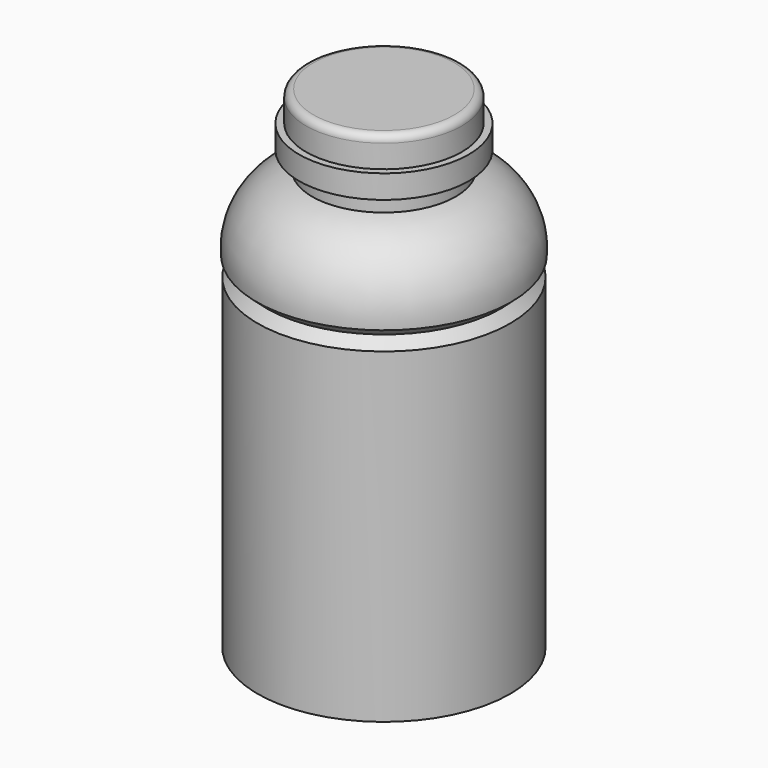
from build123d import *

# Parameters (mm, degrees)
F2_R = 2.54


with BuildPart() as f1:
    # F0 (on Front) → F1 (revolve)
    with BuildSketch(Plane.XZ):
        with BuildLine():
            Line((26.818993, 63.024633), (0, 63.024633))
            Line((0, 63.024633), (0, -104.952209))
            Line((0, -104.952209), (43.4866, -106.24814))
            Line((43.4866, -106.24814), (43.4866, 6.036696))
            Line((43.4866, 6.036696), (40.355504, 9.5529))
            Line((40.355504, 9.5529), (43.816406, 12.634752))
            ThreePointArc((43.816406, 12.634752), (39.197905, 29.15784), (24.733072, 38.383434))
            Line((24.733072, 38.383434), (24.733072, 44.549331))
            Line((24.733072, 44.549331), (29.202903, 44.549331))
            Line((29.202903, 44.549331), (29.202903, 50.211117))
            Line((29.202903, 50.211117), (29.202903, 52.595027))
            Line((29.202903, 52.595027), (26.818993, 52.595027))
            Line((26.818993, 52.595027), (26.818993, 63.024633))
        make_face()
    revolve(axis=Axis((0, 0, -20.963788), (0, 0, -1)))

    # F2
    f2_edges = [f1.edges().sort_by_distance(p)[0] for p in [
        (-26.818993, 0, 63.024633),
    ]]
    fillet(f2_edges, radius=F2_R)


solid = f1.part
